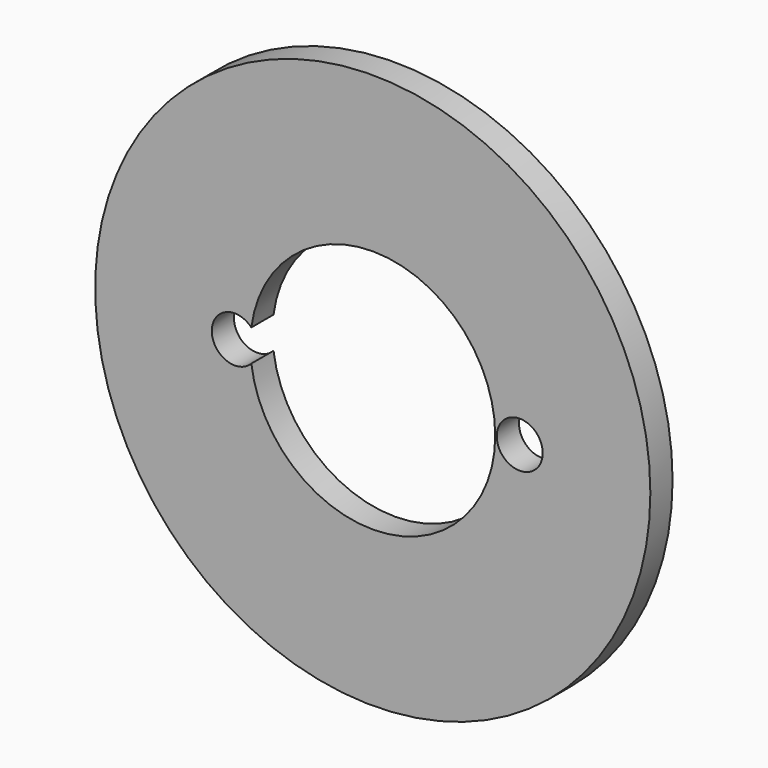
from build123d import *

# Parameters (mm, degrees)
F0_R     = 43.18
F0_R_2   = 3.571875
F1_DEPTH = 4.318


with BuildPart() as f1:
    # F0 (on Front) → F1 (new body)
    with BuildSketch(Plane.XZ):
        Circle(F0_R)
        with BuildLine():
            ThreePointArc((-18.889089, -2.470793), (-25.040397, 0), (-18.889089, 2.470793))
            ThreePointArc((-18.889089, 2.470793), (1.238013, 19.00973), (19.05, 0))
            ThreePointArc((19.05, 0), (1.238013, -19.00973), (-18.889089, -2.470793))
        make_face(mode=Mode.SUBTRACT)
        with Locations((22.86, 0)):
            Circle(F0_R_2, mode=Mode.SUBTRACT)
    extrude(amount=F1_DEPTH)


solid = f1.part
